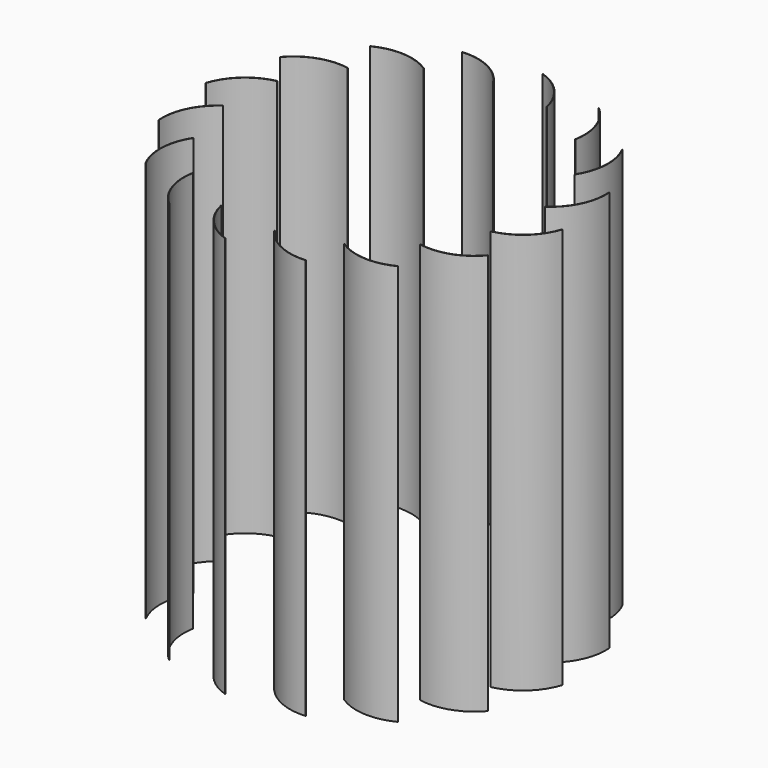
from build123d import *

# Parameters (mm, degrees)
F1_DEPTH = 2000
F3_COUNT = 16


with BuildPart() as f1:
    # F0 (on Top) → F1 (new body)
    with BuildSketch(Plane.XY):
        with BuildLine():
            ThreePointArc((-720.644916, 236.029009), (-849.786213, 170.228232), (-928.725467, 48.672439))
            Line((-928.725467, 48.672439), (-926.823354, 48.054405))
            ThreePointArc((-926.823354, 48.054405), (-848.447951, 168.741942), (-720.229093, 234.072714))
            Line((-720.229093, 234.072714), (-720.644916, 236.029009))
        make_face()
    extrude(amount=F1_DEPTH)


with BuildPart() as f3_1:
    # F3: instance of F1
    add(f1.part.rotate(Axis((0, 0, 502.664506), (0, 0, 1)), 1 * 360 / F3_COUNT))


with BuildPart() as f3_2:
    # F3: instance of F1
    add(f1.part.rotate(Axis((0, 0, 502.664506), (0, 0, 1)), 2 * 360 / F3_COUNT))


with BuildPart() as f3_3:
    # F3: instance of F1
    add(f1.part.rotate(Axis((0, 0, 502.664506), (0, 0, 1)), 3 * 360 / F3_COUNT))


with BuildPart() as f3_4:
    # F3: instance of F1
    add(f1.part.rotate(Axis((0, 0, 502.664506), (0, 0, 1)), 4 * 360 / F3_COUNT))


with BuildPart() as f3_5:
    # F3: instance of F1
    add(f1.part.rotate(Axis((0, 0, 502.664506), (0, 0, 1)), 5 * 360 / F3_COUNT))


with BuildPart() as f3_6:
    # F3: instance of F1
    add(f1.part.rotate(Axis((0, 0, 502.664506), (0, 0, 1)), 6 * 360 / F3_COUNT))


with BuildPart() as f3_7:
    # F3: instance of F1
    add(f1.part.rotate(Axis((0, 0, 502.664506), (0, 0, 1)), 7 * 360 / F3_COUNT))


with BuildPart() as f3_8:
    # F3: instance of F1
    add(f1.part.rotate(Axis((0, 0, 502.664506), (0, 0, 1)), 8 * 360 / F3_COUNT))


with BuildPart() as f3_9:
    # F3: instance of F1
    add(f1.part.rotate(Axis((0, 0, 502.664506), (0, 0, 1)), 9 * 360 / F3_COUNT))


with BuildPart() as f3_10:
    # F3: instance of F1
    add(f1.part.rotate(Axis((0, 0, 502.664506), (0, 0, 1)), 10 * 360 / F3_COUNT))


with BuildPart() as f3_11:
    # F3: instance of F1
    add(f1.part.rotate(Axis((0, 0, 502.664506), (0, 0, 1)), 11 * 360 / F3_COUNT))


with BuildPart() as f3_12:
    # F3: instance of F1
    add(f1.part.rotate(Axis((0, 0, 502.664506), (0, 0, 1)), 12 * 360 / F3_COUNT))


with BuildPart() as f3_13:
    # F3: instance of F1
    add(f1.part.rotate(Axis((0, 0, 502.664506), (0, 0, 1)), 13 * 360 / F3_COUNT))


with BuildPart() as f3_14:
    # F3: instance of F1
    add(f1.part.rotate(Axis((0, 0, 502.664506), (0, 0, 1)), 14 * 360 / F3_COUNT))


with BuildPart() as f3_15:
    # F3: instance of F1
    add(f1.part.rotate(Axis((0, 0, 502.664506), (0, 0, 1)), 15 * 360 / F3_COUNT))


solid = Compound([f1.part, f3_1.part, f3_2.part, f3_3.part, f3_4.part, f3_5.part, f3_6.part, f3_7.part, f3_8.part, f3_9.part, f3_10.part, f3_11.part, f3_12.part, f3_13.part, f3_14.part, f3_15.part])
